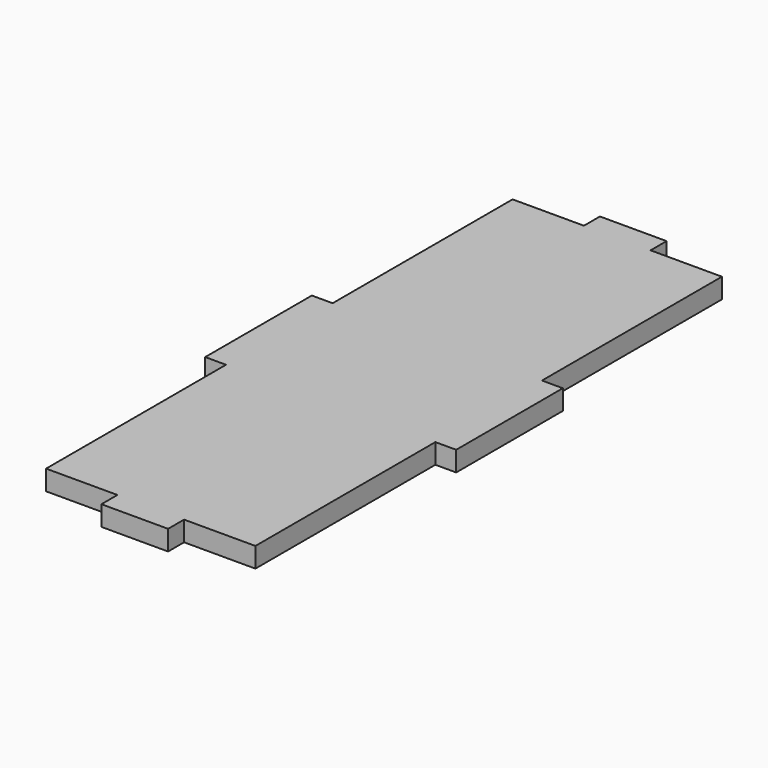
from build123d import *

# Parameters (mm, degrees)
F1_DEPTH = 6.096


with BuildPart() as f1:
    # F0 (on Top) → F1 (new body)
    with BuildSketch(Plane.XY):
        Polygon((-31.358602, 23.439091), (-37.708602, 23.439091), (-37.708602, -17.200909), (-31.358602, -17.200909), (-31.358602, -85.780909), (-9.605706, -85.780909), (-9.605706, -91.876909), (10.714294, -91.876909), (10.714294, -85.780909), (32.46719, -85.780909), (32.46719, -17.200909), (38.81719, -17.200909), (38.81719, 23.439091), (32.465462, 23.439091), (32.465462, 92.019091), (10.714294, 92.019091), (10.714294, 98.115091), (-9.605706, 98.115091), (-9.605706, 92.019091), (-31.358602, 92.019091), align=None)
    extrude(amount=F1_DEPTH)


solid = f1.part
